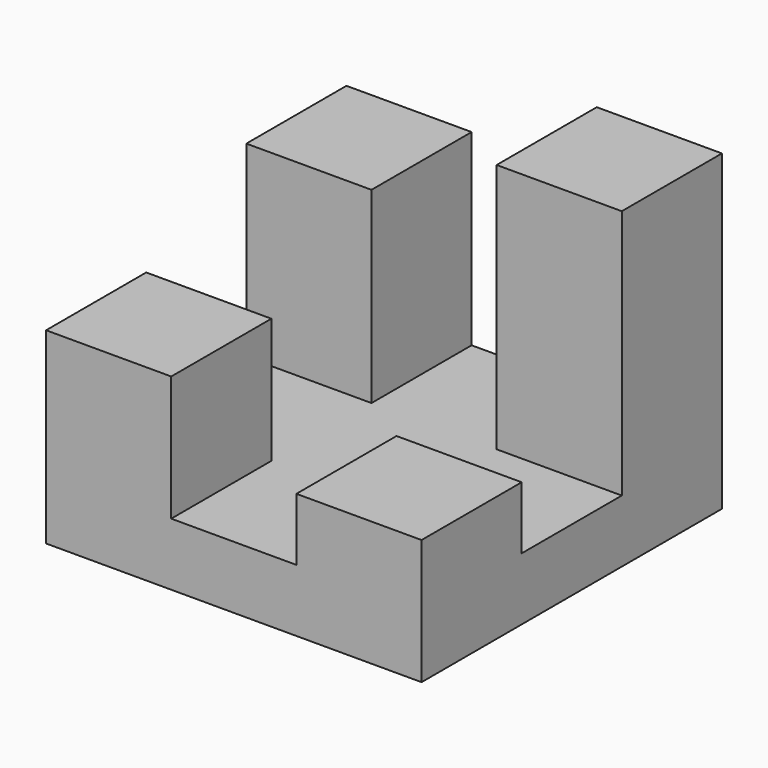
from build123d import *

# Parameters (mm, degrees)
F0_W     = 76.2
F0_H     = 12.7
F1_DEPTH = 76.2
F2_W     = 25.4
F2_H     = 25.4
F3_DEPTH = 25.4
F4_DEPTH = 12.7
F5_DEPTH = 38.1
F6_DEPTH = 50.8


with BuildPart() as f1:
    # F0 (on Front) → F1 (new body)
    with BuildSketch(Plane.XZ):
        with Locations((-1.756436, -34.356326)):
            Rectangle(F0_W, F0_H)
    extrude(amount=F1_DEPTH)

    # F2 (on face) → F3 (join)
    with BuildSketch(Plane.XY.offset(-28.006326)):
        with Locations((-27.156436, -63.5)):
            Rectangle(F2_W, F2_H)
    extrude(amount=F3_DEPTH)

    # F2 (on face) → F4 (join)
    with BuildSketch(Plane.XY.offset(-28.006326)):
        with Locations((23.643564, -63.5)):
            Rectangle(F2_W, F2_H)
    extrude(amount=F4_DEPTH)

    # F2 (on face) → F5 (join)
    with BuildSketch(Plane.XY.offset(-28.006326)):
        with Locations((-27.156436, -12.7)):
            Rectangle(F2_W, F2_H)
    extrude(amount=F5_DEPTH)

    # F2 (on face) → F6 (join)
    with BuildSketch(Plane.XY.offset(-28.006326)):
        with Locations((23.643564, -12.7)):
            Rectangle(F2_W, F2_H)
    extrude(amount=F6_DEPTH)


solid = f1.part
